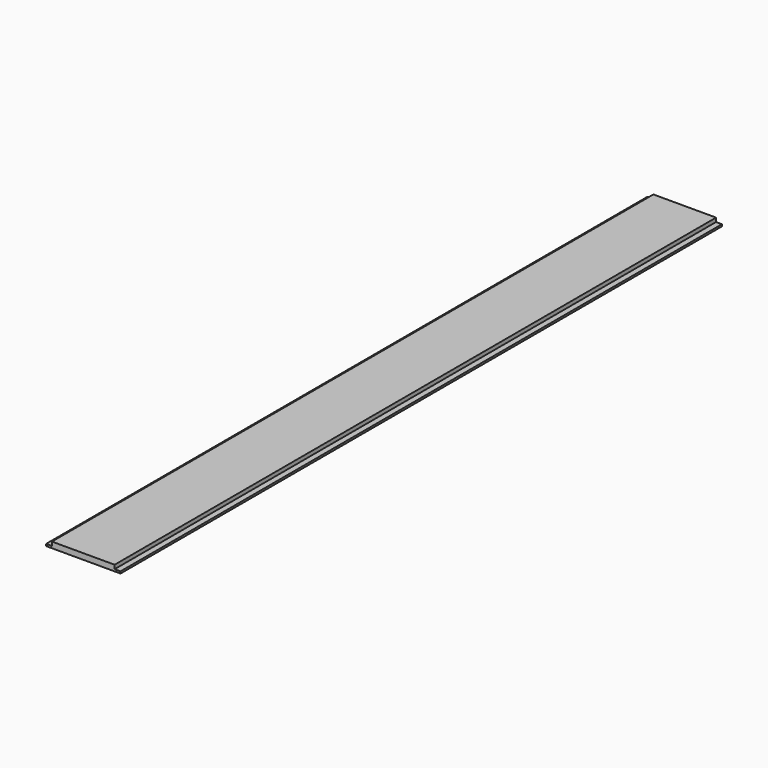
from build123d import *

# Parameters (mm, degrees)
F0_W     = 203.2
F0_H     = 12.7
F1_DEPTH = 2438.4


with BuildPart() as f1:
    # F0 (on Front) → F1 (new body)
    with BuildSketch(Plane.XZ):
        with Locations((14.341989, 19.369072)):
            Rectangle(F0_W, F0_H)
        Polygon((115.941989, 13.019072), (-87.258011, 13.019072), (-106.308011, 13.019072), (-106.308011, 6.669072), (134.991989, 6.669072), (134.991989, 13.019072), align=None)
    extrude(amount=-F1_DEPTH)


solid = f1.part
